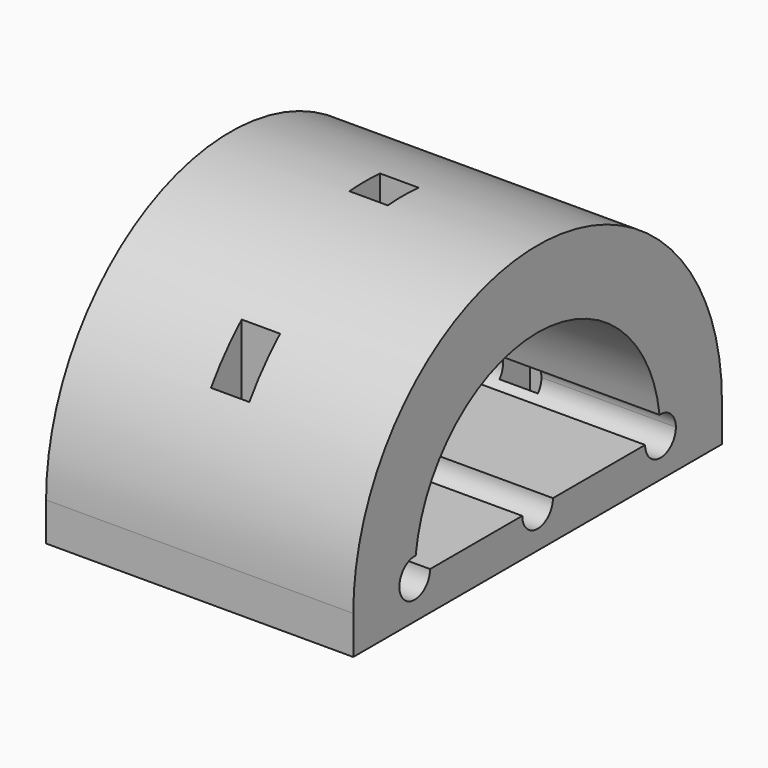
from build123d import *

# Parameters (mm, degrees)
F0_W     = 120
F0_H     = 10
F1_DEPTH = 80
F3_DEPTH = 80.001
F4_DEPTH = 25
F5_W     = 10
F5_H     = 10
F6_DEPTH = 70.001


with BuildPart() as f1:
    # F0 (on Right) → F1 (new body)
    with BuildSketch(Plane.YZ):
        Rectangle(F0_W, F0_H)
        with BuildLine():
            ThreePointArc((60, 5), (0, 65), (-60, 5))
            Line((-60, 5), (60, 5))
        make_face()
    extrude(amount=F1_DEPTH)

    # F2 (on face) → F3 (cut, through all)
    with BuildSketch(Plane.YZ.offset(80)):
        with BuildLine():
            Line((-5, 5), (5, 5))
            ThreePointArc((5, 5), (0, 10), (-5, 5))
        make_face()
        with BuildLine():
            ThreePointArc((-5, 5), (0, 0), (5, 5))
            Line((5, 5), (-5, 5))
        make_face()
        with BuildLine():
            ThreePointArc((-5, 5), (0, 10), (5, 5))
            Line((5, 5), (35, 5))
            ThreePointArc((35, 5), (36.3556550657, 8.4232659844), (39.6875, 9.9902248196))
            ThreePointArc((39.6875, 9.9902248196), (0, 45), (-39.6875, 9.9902248196))
            ThreePointArc((-39.6875, 9.9902248196), (-36.3556550657, 8.4232659844), (-35, 5))
            Line((-35, 5), (-5, 5))
        make_face()
        with BuildLine():
            Line((40, 5), (35, 5))
            ThreePointArc((35, 5), (40, 0), (45, 5))
            ThreePointArc((45, 5), (43.4232659844, 8.6443449343), (39.6875, 9.9902248196))
            ThreePointArc((39.6875, 9.9902248196), (39.9217985567, 7.5), (40, 5))
        make_face()
        with BuildLine():
            ThreePointArc((39.6875, 9.9902248196), (36.3556550657, 8.4232659844), (35, 5))
            Line((35, 5), (40, 5))
            ThreePointArc((40, 5), (39.9217985567, 7.5), (39.6875, 9.9902248196))
        make_face()
        with BuildLine():
            Line((-40, 5), (-35, 5))
            ThreePointArc((-35, 5), (-36.3556550657, 8.4232659844), (-39.6875, 9.9902248196))
            ThreePointArc((-39.6875, 9.9902248196), (-39.9217985567, 7.5), (-40, 5))
        make_face()
        with BuildLine():
            ThreePointArc((-39.6875, 9.9902248196), (-43.6443449343, 1.5767340156), (-35, 5))
            Line((-35, 5), (-40, 5))
            ThreePointArc((-40, 5), (-39.9217985567, 7.5), (-39.6875, 9.9902248196))
        make_face()
    extrude(amount=-F3_DEPTH, mode=Mode.SUBTRACT)

    # F2 (on face) → F4 (cut)
    with BuildSketch(Plane.YZ.offset(80)):
        with BuildLine():
            Line((-5, 5), (5, 5))
            ThreePointArc((5, 5), (0, 10), (-5, 5))
        make_face()
        with BuildLine():
            ThreePointArc((-5, 5), (0, 0), (5, 5))
            Line((5, 5), (-5, 5))
        make_face()
        with BuildLine():
            ThreePointArc((-5, 5), (0, 10), (5, 5))
            Line((5, 5), (35, 5))
            ThreePointArc((35, 5), (36.3556550657, 8.4232659844), (39.6875, 9.9902248196))
            ThreePointArc((39.6875, 9.9902248196), (0, 45), (-39.6875, 9.9902248196))
            ThreePointArc((-39.6875, 9.9902248196), (-36.3556550657, 8.4232659844), (-35, 5))
            Line((-35, 5), (-5, 5))
        make_face()
        with BuildLine():
            Line((40, 5), (35, 5))
            ThreePointArc((35, 5), (40, 0), (45, 5))
            ThreePointArc((45, 5), (43.4232659844, 8.6443449343), (39.6875, 9.9902248196))
            ThreePointArc((39.6875, 9.9902248196), (39.9217985567, 7.5), (40, 5))
        make_face()
        with BuildLine():
            ThreePointArc((39.6875, 9.9902248196), (36.3556550657, 8.4232659844), (35, 5))
            Line((35, 5), (40, 5))
            ThreePointArc((40, 5), (39.9217985567, 7.5), (39.6875, 9.9902248196))
        make_face()
        with BuildLine():
            Line((-40, 5), (-35, 5))
            ThreePointArc((-35, 5), (-36.3556550657, 8.4232659844), (-39.6875, 9.9902248196))
            ThreePointArc((-39.6875, 9.9902248196), (-39.9217985567, 7.5), (-40, 5))
        make_face()
        with BuildLine():
            ThreePointArc((-39.6875, 9.9902248196), (-43.6443449343, 1.5767340156), (-35, 5))
            Line((-35, 5), (-40, 5))
            ThreePointArc((-40, 5), (-39.9217985567, 7.5), (-39.6875, 9.9902248196))
        make_face()
    extrude(amount=-F4_DEPTH, mode=Mode.SUBTRACT)

    # F5 (on face) → F6 (cut, through all)
    with BuildSketch(Plane(origin=(0, 0, -5), x_dir=(1, 0, 0), z_dir=(0, 0, -1))):
        with Locations((40, 45.0840815902)):
            Rectangle(F5_W, F5_H)
        with Locations((40, 0)):
            Rectangle(F5_W, F5_H)
        with Locations((40, -48.8508976996)):
            Rectangle(F5_W, F5_H)
    extrude(amount=-F6_DEPTH, mode=Mode.SUBTRACT)


solid = f1.part
